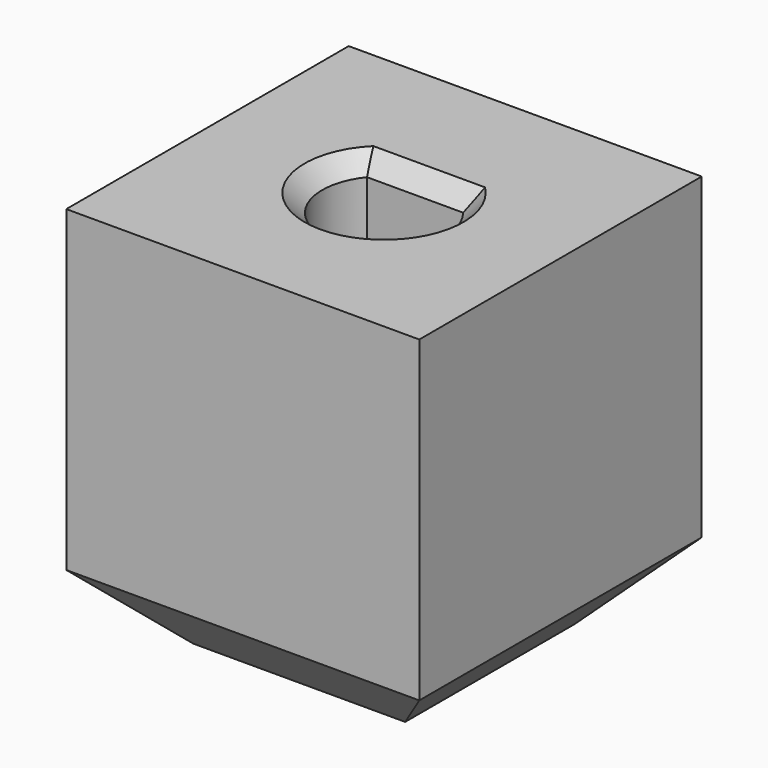
from build123d import *

# Parameters (mm, degrees)
BOX406008008_W     = 10
BOX406008008_H     = 10
BOX406008008_DEPTH = 19
CYLINDER079_R      = 1.75
CYLINDER079_DEPTH  = 17
BOX406008009_W     = 10
BOX406008009_H     = 10
BOX406008009_DEPTH = 11
CHAMFER004_SIZE    = 2
CHAMFER008_SIZE    = 0.5


with BuildPart() as cube343:
    # Box406008008 → Box406008008 (new body)
    with BuildSketch(Plane(origin=(-5, 1.1, 1.5), x_dir=(1, 0, 0), z_dir=(0, 0, 1))):
        with Locations((5, 5)):
            Rectangle(BOX406008008_W, BOX406008008_H)
    extrude(amount=BOX406008008_DEPTH)


with BuildPart() as motor_shaft_hole:
    # Cylinder079 → Cylinder079 (new body)
    with BuildSketch(Plane.XY.offset(9)):
        Circle(CYLINDER079_R)
    extrude(amount=CYLINDER079_DEPTH)

    # Cut064: cut Cube343
    add(cube343.part, mode=Mode.SUBTRACT)


with BuildPart() as chamfer008:
    # Box406008009 → Box406008009 (new body)
    with BuildSketch(Plane(origin=(-5, -5, 7), x_dir=(1, 0, 0), z_dir=(0, 0, 1))):
        with Locations((5, 5)):
            Rectangle(BOX406008009_W, BOX406008009_H)
    extrude(amount=BOX406008009_DEPTH)

    # Cut065: cut Motor Shaft Hole
    add(motor_shaft_hole.part, mode=Mode.SUBTRACT)

    # Chamfer004
    chamfer004_edges = [chamfer008.edges().sort_by_distance(p)[0] for p in [
        (-5, 0, 7),
        (0, -5, 7),
        (0, 5, 7),
        (5, 0, 7),
    ]]
    chamfer(chamfer004_edges, length=CHAMFER004_SIZE)

    # Chamfer008
    chamfer008_edges = [chamfer008.edges().sort_by_distance(p)[0] for p in [
        (1.649904, 0.583367, 18),
        (0, 1.1, 18),
        (-0.583367, -1.649904, 18),
    ]]
    chamfer(chamfer008_edges, length=CHAMFER008_SIZE)


solid = chamfer008.part
